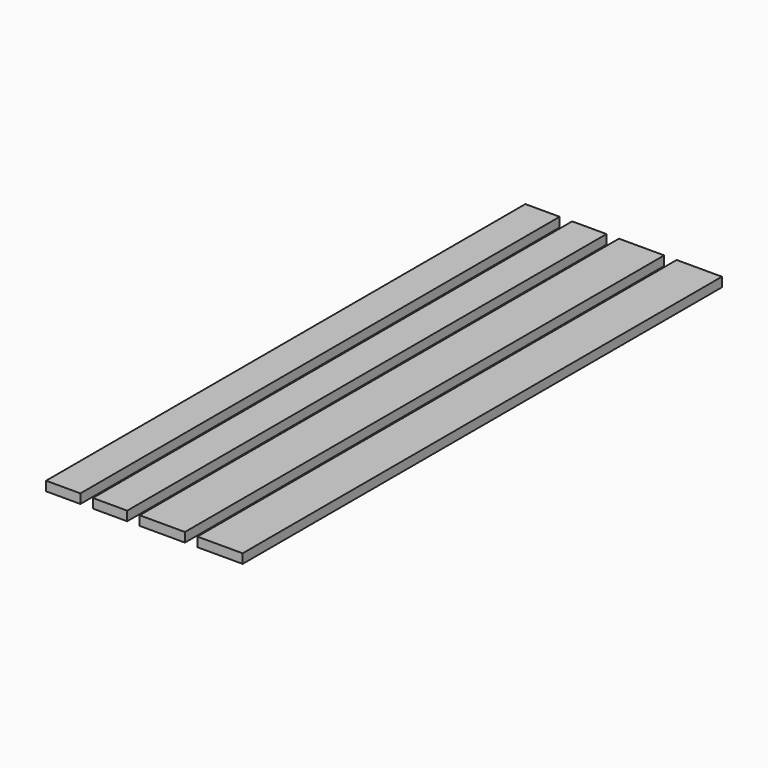
from build123d import *

# Parameters (mm, degrees)
F0_W     = 139.7
F0_H     = 2438.4
F0_W_2   = 184.15
F1_DEPTH = 38.1


with BuildPart() as f1:
    # F0 (on Top) → F1 (new body)
    with BuildSketch(Plane.XY):
        with Locations((69.85, 1219.2)):
            Rectangle(F0_W, F0_H)
        with Locations((260.35, 1219.2)):
            Rectangle(F0_W, F0_H)
        with Locations((473.075, 1219.2)):
            Rectangle(F0_W_2, F0_H)
        with Locations((708.025, 1219.2)):
            Rectangle(F0_W_2, F0_H)
    extrude(amount=F1_DEPTH)


solid = f1.part
